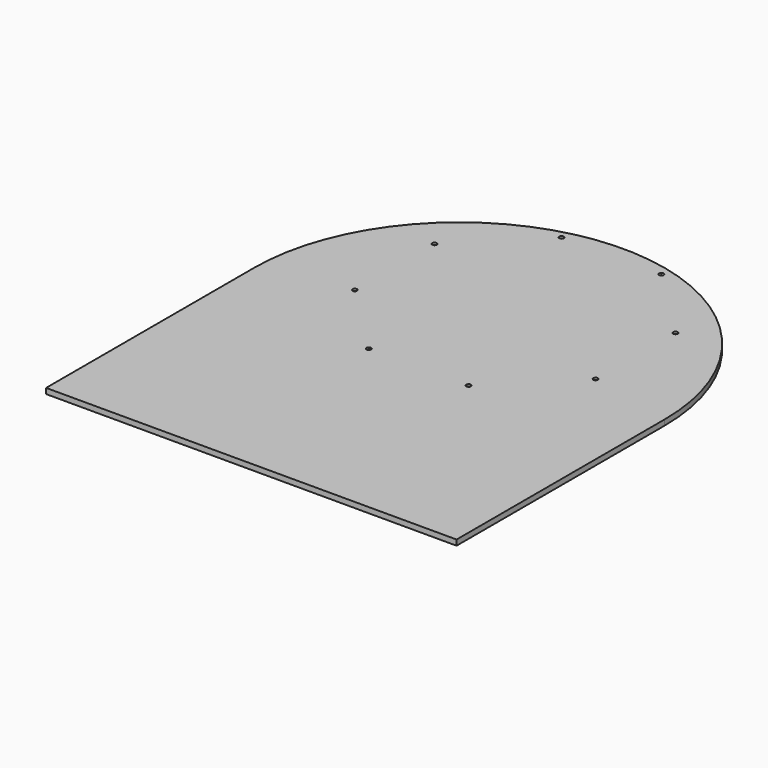
from build123d import *

# Parameters (mm, degrees)
F0_R     = 2.15265
F1_DEPTH = 5.08
F2_SIZE2 = 3.175
F2_SIZE  = 5.08


with BuildPart() as f1:
    # F0 (on Top) → F1 (new body)
    with BuildSketch(Plane.XY):
        with BuildLine():
            Line((0, 0), (0, -241.3))
            Line((0, -241.3), (381, -241.3))
            Line((381, -241.3), (381, 0))
            ThreePointArc((381, 0), (190.5, 190.5), (0, 0))
        make_face()
        with Locations((144.1953146719, -47.0518732206)):
            Circle(F0_R, mode=Mode.SUBTRACT)
        with Locations((236.8046853281, -47.0518732206)):
            Circle(F0_R, mode=Mode.SUBTRACT)
        with Locations((78.7106006794, 18.4328407719)):
            Circle(F0_R, mode=Mode.SUBTRACT)
        with Locations((78.7106006794, 111.0422114281)):
            Circle(F0_R, mode=Mode.SUBTRACT)
        with Locations((144.1953146719, 176.5269254206)):
            Circle(F0_R, mode=Mode.SUBTRACT)
        with Locations((302.2893993206, 18.4328407719)):
            Circle(F0_R, mode=Mode.SUBTRACT)
        with Locations((236.8046853281, 176.5269254206)):
            Circle(F0_R, mode=Mode.SUBTRACT)
        with Locations((302.2893993206, 111.0422114281)):
            Circle(F0_R, mode=Mode.SUBTRACT)
    extrude(amount=F1_DEPTH)

    # F2
    f2_edges = [f1.edges().sort_by_distance(p)[0] for p in [
        (234.652035, -47.051873, 0),
        (300.136749, 18.432841, 0),
        (300.136749, 111.042211, 0),
        (142.042665, -47.051873, 0),
        (76.557951, 18.432841, 0),
        (76.557951, 111.042211, 0),
        (142.042665, 176.526925, 0),
        (234.652035, 176.526925, 0),
    ]]
    f2_side = f1.faces().sort_by_distance((190.5, -43.613239, 0))[0]
    chamfer(f2_edges, length=F2_SIZE, length2=F2_SIZE2, reference=f2_side)


solid = f1.part
